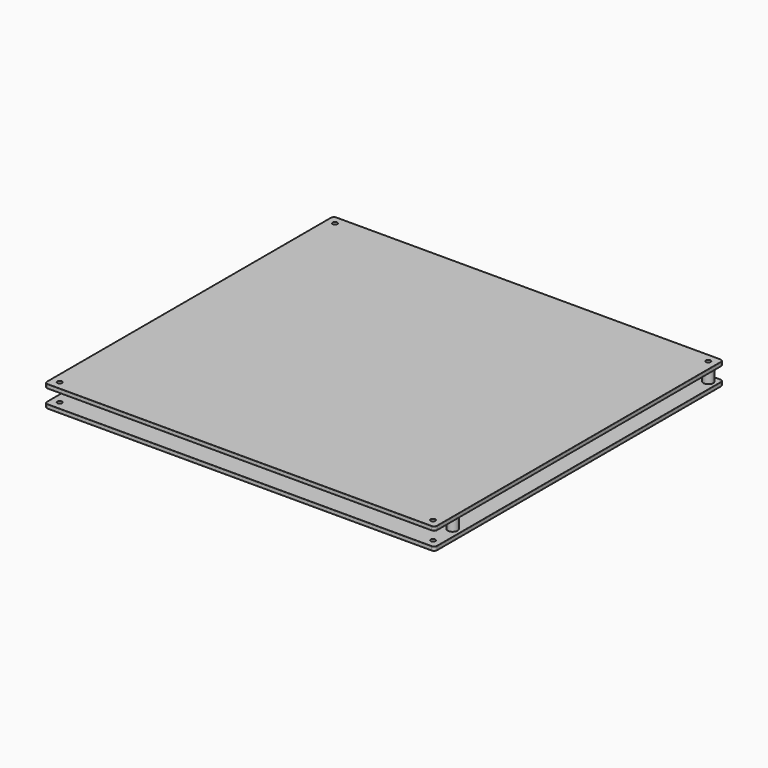
from build123d import *

# Parameters (mm, degrees)
F0_W      = 254
F0_H      = 235
F2_DEPTH  = 2.54
F3_D      = 3
F4_R      = 2
F5_R      = 2
F6_R      = 2
F7_R      = 0.1
F8_R      = 0.1
F10_R     = 3.175
F10_R_2   = 1.55
F11_DEPTH = 9
F17_W     = 214.8
F17_H     = 195.8
F18_DEPTH = 0.5


with BuildPart() as f2:
    # F0 (on Top) → F2 (new body)
    with BuildSketch(Plane.XY):
        with Locations((-127, -117.5)):
            Rectangle(F0_W, F0_H)
    extrude(amount=F2_DEPTH)

    # F3 (through all)
    with Locations(Plane(origin=(0, 0, 0), x_dir=(1, 0, 0), z_dir=(0, 0, -1))):
        with Locations((-5.5, 5.5), (-5.5, 229.5), (-248.5, 229.5), (-248.5, 5.5)):
            Hole(F3_D / 2)

    # F4
    f4_edges = [f2.edges().sort_by_distance(p)[0] for p in [
        (-254, -235, 1.27),
    ]]
    fillet(f4_edges, radius=F4_R)

    # F5
    f5_edges = [f2.edges().sort_by_distance(p)[0] for p in [
        (-254, 0, 1.27),
        (0, -235, 1.27),
    ]]
    fillet(f5_edges, radius=F5_R)

    # F6
    f6_edges = [f2.edges().sort_by_distance(p)[0] for p in [
        (0, 0, 1.27),
    ]]
    fillet(f6_edges, radius=F6_R)

    # F7
    f7_edges = [f2.edges().sort_by_distance(p)[0] for p in [
        (-127, -235, 2.54),
    ]]
    fillet(f7_edges, radius=F7_R)

    # F8
    f8_edges = [f2.edges().sort_by_distance(p)[0] for p in [
        (-254, -117.5, 0),
    ]]
    fillet(f8_edges, radius=F8_R)


with BuildPart() as f9_1:
    # F9: copy of F2
    add(f2.part.moved(Location((0, 0, 9))))


with BuildPart() as f11:
    # F10 (on Top) → F11 (new body)
    with BuildSketch(Plane.XY):
        Circle(F10_R)
        Circle(F10_R_2, mode=Mode.SUBTRACT)
    extrude(amount=F11_DEPTH)


with BuildPart() as f2_1:
    # F12: moved
    add(f2.part.moved(Location((0, 0, -2.54))))

    # F17 (on face) → F18 (cut)
    with BuildSketch(Plane(origin=(0, 0, -2.54), x_dir=(1, 0, 0), z_dir=(0, 0, -1))):
        with Locations((-127, 117.5)):
            Rectangle(F17_W, F17_H)
    extrude(amount=-F18_DEPTH, mode=Mode.SUBTRACT)


with BuildPart() as f11_1:
    # F13: moved
    add(f11.part.moved(Location((-5.5, -5.5, 0))))


with BuildPart() as f14_1:
    # F14: copy of F11
    add(f11_1.part.moved(Location((0, -208, 0))))


with BuildPart() as f15_1:
    # F15: copy of F14_1
    add(f14_1.part.moved(Location((-208, 0, 0))))


with BuildPart() as f16_1:
    # F16: copy of F15_1
    add(f15_1.part.moved(Location((0, 208, 0))))


solid = Compound([f9_1.part, f2_1.part, f11_1.part, f14_1.part, f15_1.part, f16_1.part])
